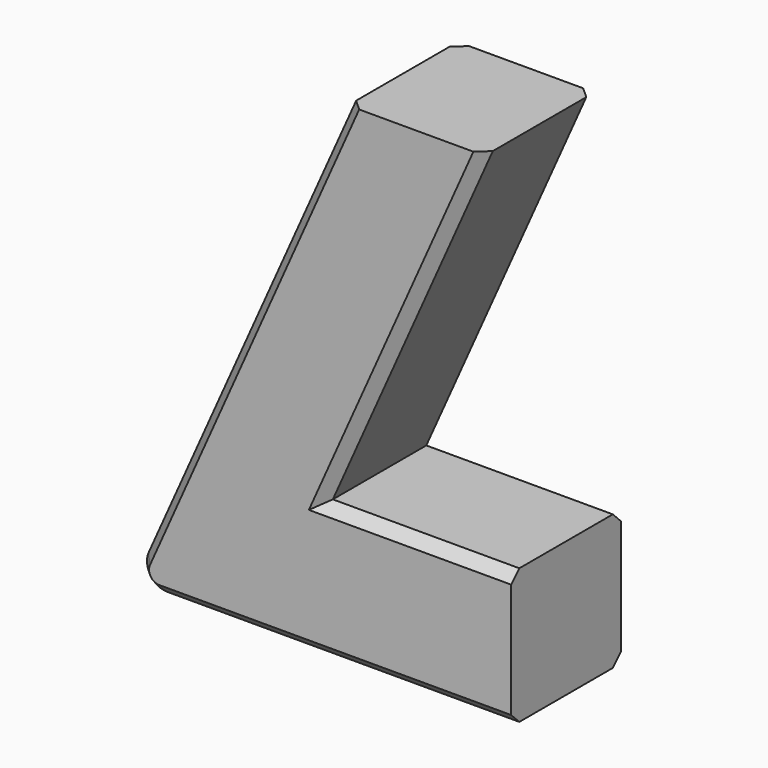
from build123d import *

# Parameters (mm, degrees)
F1_DEPTH = 67
F2_R     = 10
F3_SIZE  = 5


with BuildPart() as f1:
    # F0 (on Front) → F1 (new body)
    with BuildSketch(Plane.XZ):
        Polygon((0, 0), (0, 66), (-91, 66), (-12.957165, 240.985362), (-79.623835, 240.985362), (-187.10243, 0), align=None)
    extrude(amount=F1_DEPTH)

    # F2
    f2_edges = [f1.edges().sort_by_distance(p)[0] for p in [
        (-187.10243, -33.5, 0),
    ]]
    fillet(f2_edges, radius=F2_R)

    # F3
    f3_edges = [f1.edges().sort_by_distance(p)[0] for p in [
        (-51.978583, -67, 153.492681),
        (-51.978583, 0, 153.492681),
        (-130.224831, 0, 127.52929),
        (-130.224831, -67, 127.52929),
        (-45.5, 0, 66),
        (-45.5, -67, 66),
    ]]
    chamfer(f3_edges, length=F3_SIZE)


solid = f1.part
